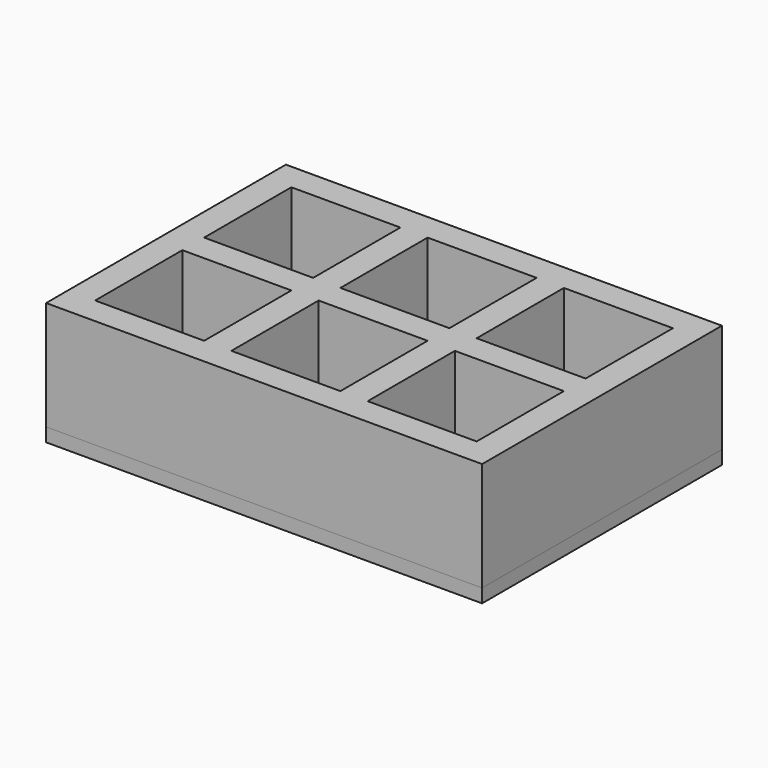
from build123d import *

# Parameters (mm, degrees)
F0_W     = 101.6
F0_H     = 69.85
F0_W_2   = 6.35
F0_H_2   = 25.4
F0_W_3   = 25.4
F0_H_3   = 6.35
F1_DEPTH = 28.575
F2_DEPTH = 3.175


with BuildPart() as f1:
    # F0 (on Top) → F1 (new body)
    with BuildSketch(Plane.XY):
        Rectangle(F0_W, F0_H)
        Polygon((-44.45, 3.175), (-44.45, 28.575), (-19.05, 28.575), (-12.7, 28.575), (12.7, 28.575), (19.05, 28.575), (44.45, 28.575), (44.45, 3.175), (44.45, -3.175), (44.45, -28.575), (19.05, -28.575), (12.7, -28.575), (-12.7, -28.575), (-19.05, -28.575), (-44.45, -28.575), (-44.45, -3.175), align=None, mode=Mode.SUBTRACT)
        with Locations((-15.875, 15.875)):
            Rectangle(F0_W_2, F0_H_2)
        with Locations((-31.75, 0)):
            Rectangle(F0_W_3, F0_H_3)
        with Locations((-15.875, 0)):
            Rectangle(F0_W_2, F0_H_3)
        with Locations((-15.875, -15.875)):
            Rectangle(F0_W_2, F0_H_2)
        Rectangle(F0_W_3, F0_H_3)
        with Locations((15.875, 15.875)):
            Rectangle(F0_W_2, F0_H_2)
        with Locations((15.875, 0)):
            Rectangle(F0_W_2, F0_H_3)
        with Locations((31.75, 0)):
            Rectangle(F0_W_3, F0_H_3)
        with Locations((15.875, -15.875)):
            Rectangle(F0_W_2, F0_H_2)
    extrude(amount=F1_DEPTH)


with BuildPart() as f2:
    # F0 (on Top) → F2 (new body)
    with BuildSketch(Plane.XY):
        Rectangle(F0_W, F0_H)
        Polygon((-44.45, 3.175), (-44.45, 28.575), (-19.05, 28.575), (-12.7, 28.575), (12.7, 28.575), (19.05, 28.575), (44.45, 28.575), (44.45, 3.175), (44.45, -3.175), (44.45, -28.575), (19.05, -28.575), (12.7, -28.575), (-12.7, -28.575), (-19.05, -28.575), (-44.45, -28.575), (-44.45, -3.175), align=None, mode=Mode.SUBTRACT)
        with Locations((-31.75, 15.875)):
            Rectangle(F0_W_3, F0_H_2)
        with Locations((0, 15.875)):
            Rectangle(F0_W_3, F0_H_2)
        with Locations((-31.75, -15.875)):
            Rectangle(F0_W_3, F0_H_2)
        with Locations((0, -15.875)):
            Rectangle(F0_W_3, F0_H_2)
        with Locations((31.75, -15.875)):
            Rectangle(F0_W_3, F0_H_2)
        with Locations((31.75, 15.875)):
            Rectangle(F0_W_3, F0_H_2)
    extrude(amount=F2_DEPTH)


solid = Compound([f1.part, f2.part])
